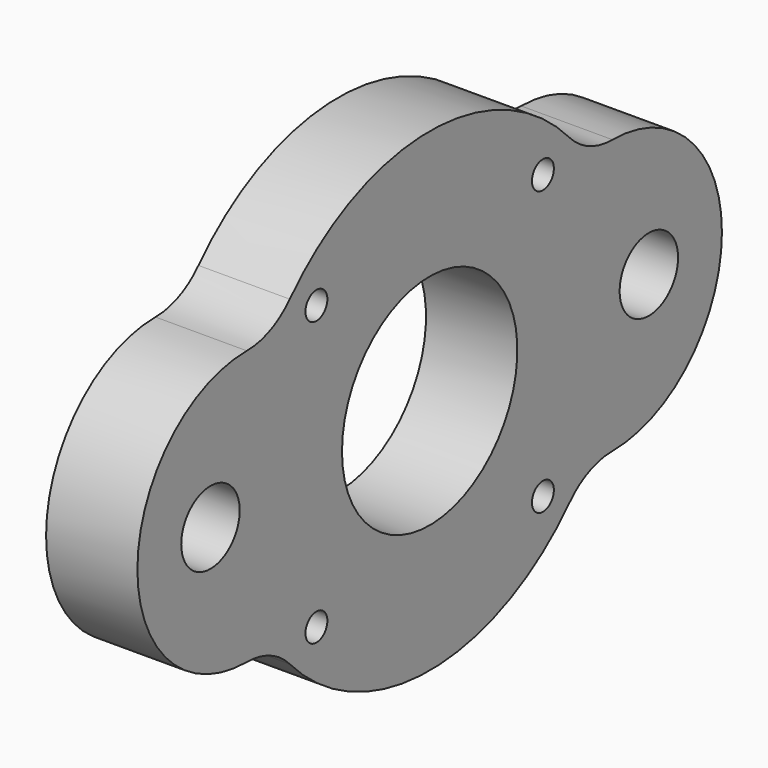
from build123d import *

# Parameters (mm, degrees)
SKETCH018_R   = 4
SKETCH018_R_2 = 1.5
SKETCH018_R_3 = 12
PAD_DEPTH     = 10


with BuildPart() as part:
    # Sketch018 → Pad (new body)
    with BuildSketch(Plane(origin=(0, 0, 0), x_dir=(0, -1, 0), z_dir=(-1, 0, 0))):
        with BuildLine():
            ThreePointArc((19.148224, 17.588221), (0, 26), (-19.148224, 17.588221))
            ThreePointArc((-25.026104, 14.999977), (-21.816028, 15.678353), (-19.148224, 17.588221))
            ThreePointArc((-25.026104, 14.999977), (-40, 0), (-25.026104, -14.999977))
            ThreePointArc((-19.148224, -17.588221), (-21.816028, -15.678353), (-25.026104, -14.999977))
            ThreePointArc((-19.148224, -17.588221), (0, -26), (19.148224, -17.588221))
            ThreePointArc((25.026104, -14.999977), (21.816028, -15.678353), (19.148224, -17.588221))
            ThreePointArc((25.026104, -14.999977), (40, 0), (25.026104, 14.999977))
            ThreePointArc((19.148224, 17.588221), (21.816028, 15.678353), (25.026104, 14.999977))
        make_face()
        with Locations((-30, 0)):
            Circle(SKETCH018_R, mode=Mode.SUBTRACT)
        with Locations((30, 0)):
            Circle(SKETCH018_R, mode=Mode.SUBTRACT)
        with Locations((-15.5, 15.5)):
            Circle(SKETCH018_R_2, mode=Mode.SUBTRACT)
        with Locations((15.5, 15.5)):
            Circle(SKETCH018_R_2, mode=Mode.SUBTRACT)
        with Locations((-15.5, -15.5)):
            Circle(SKETCH018_R_2, mode=Mode.SUBTRACT)
        with Locations((15.5, -15.5)):
            Circle(SKETCH018_R_2, mode=Mode.SUBTRACT)
        Circle(SKETCH018_R_3, mode=Mode.SUBTRACT)
    extrude(amount=PAD_DEPTH)


solid = part.part
